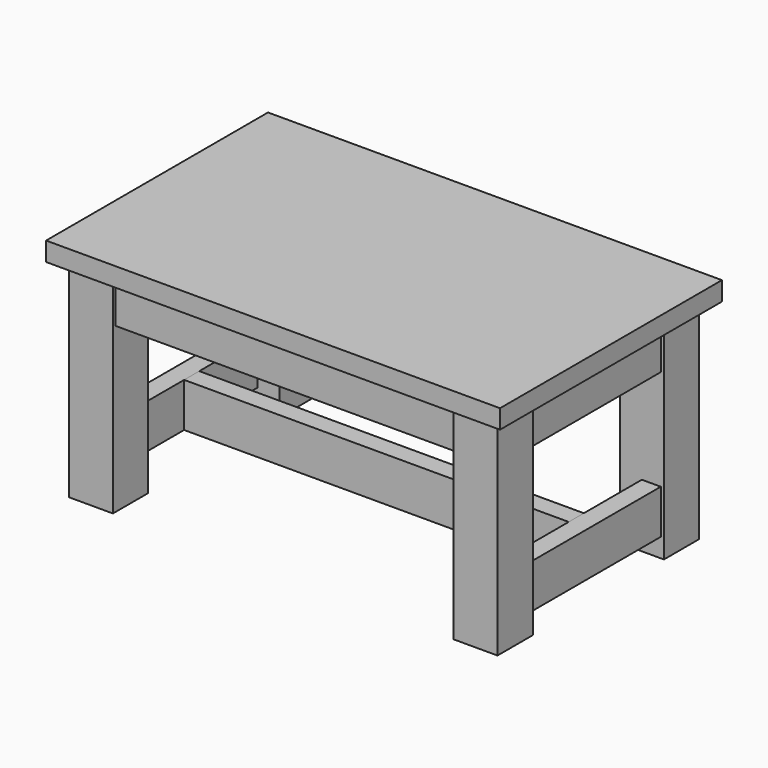
from build123d import *

# Parameters (mm, degrees)
F0_W      = 914.4
F0_H      = 558.8
F1_DEPTH  = 38.1
F2_W      = 88.9
F2_H      = 88.9
F3_DEPTH  = 419.1
F4_W      = 38.1
F4_H      = 88.9
F5_DEPTH  = 330.2
F7_W      = 38.1
F7_H      = 88.9
F8_DEPTH  = 774.7
F9_W      = 38.1
F9_H      = 88.9
F11_DEPTH = 330.2
F10_W     = 38.1
F10_H     = 88.9
F12_DEPTH = 685.8
F13_W     = 38.1
F13_H     = 88.9
F14_DEPTH = 419.1


with BuildPart() as f1:
    # F0 (on Top) → F1 (new body)
    with BuildSketch(Plane.XY):
        Rectangle(F0_W, F0_H)
    extrude(amount=F1_DEPTH)


with BuildPart() as f3:
    # F2 (on face) → F3 (new body)
    with BuildSketch(Plane(origin=(0, 0, 0), x_dir=(1, 0, 0), z_dir=(0, 0, -1))):
        with Locations((-387.35, 209.55)):
            Rectangle(F2_W, F2_H)
        with Locations((387.35, 209.55)):
            Rectangle(F2_W, F2_H)
        with Locations((387.35, -209.55)):
            Rectangle(F2_W, F2_H)
        with Locations((-387.35, -209.55)):
            Rectangle(F2_W, F2_H)
    extrude(amount=F3_DEPTH)


with BuildPart() as f5:
    # F4 (on face) → F5 (new body, through all)
    with BuildSketch(Plane(origin=(0, -165.1, 0), x_dir=(-1, 0, 0), z_dir=(0, 1, 0))):
        with Locations((-406.4, -336.55)):
            Rectangle(F4_W, F4_H)
        with Locations((406.4, -336.55)):
            Rectangle(F4_W, F4_H)
    extrude(amount=F5_DEPTH)


with BuildPart() as f8:
    # F7 (on face) → F8 (new body, through all)
    with BuildSketch(Plane(origin=(387.35, 0, 0), x_dir=(0, -1, 0), z_dir=(-1, 0, 0))):
        with Locations((0, -336.55)):
            Rectangle(F7_W, F7_H)
    extrude(amount=F8_DEPTH)


with BuildPart() as f11:
    # F9 (on face) → F11 (new body, through all)
    with BuildSketch(Plane(origin=(0, -165.1, 0), x_dir=(-1, 0, 0), z_dir=(0, 1, 0))):
        with Locations((406.4, -44.45)):
            Rectangle(F9_W, F9_H)
        with Locations((-406.4, -44.45)):
            Rectangle(F9_W, F9_H)
    extrude(amount=F11_DEPTH)


with BuildPart() as f12:
    # F10 (on face) → F12 (new body, through all)
    with BuildSketch(Plane.YZ.offset(-342.9)):
        with Locations((-228.6, -44.45)):
            Rectangle(F10_W, F10_H)
        with Locations((228.6, -44.45)):
            Rectangle(F10_W, F10_H)
    extrude(amount=F12_DEPTH)


with BuildPart() as f14:
    # F13 (on face) → F14 (new body, through all)
    with BuildSketch(Plane(origin=(0, -209.55, 0), x_dir=(-1, 0, 0), z_dir=(0, 1, 0))):
        with Locations((139.7, -44.45)):
            Rectangle(F13_W, F13_H)
        with Locations((-139.7, -44.45)):
            Rectangle(F13_W, F13_H)
    extrude(amount=F14_DEPTH)


solid = Compound([f1.part, f3.part, f5.part, f8.part, f11.part, f12.part, f14.part])
